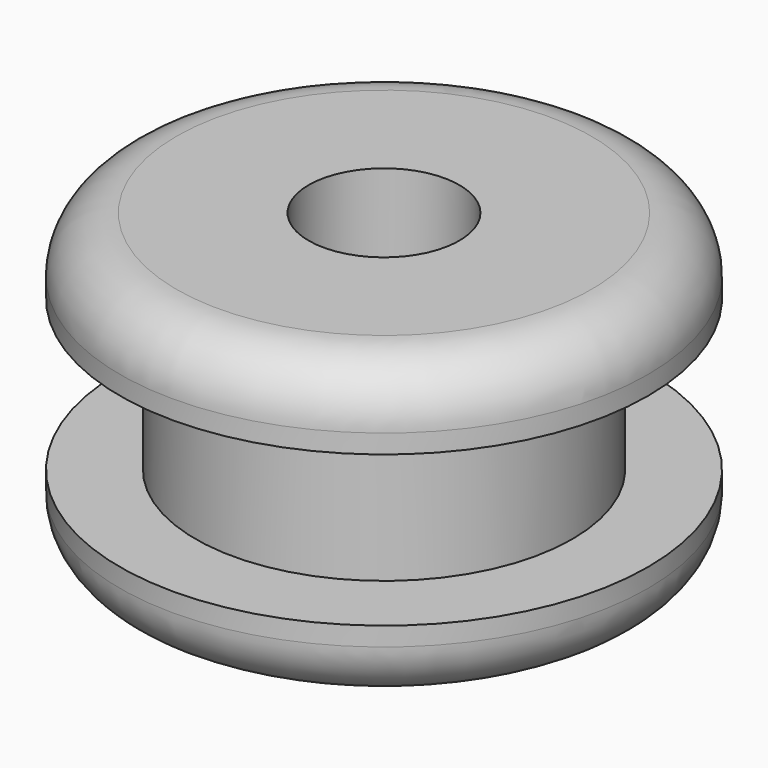
from build123d import *

# Parameters (mm, degrees)
F4_R = 1.190625
F5_R = 1.190625


with BuildPart() as f3:
    # F2 (on Front) → F3 (revolve)
    with BuildSketch(Plane.XZ):
        Polygon((-1.5875, -3.175), (-1.5875, 3.175), (-5.5626, 3.175), (-5.5626, 1.5875), (-3.96875, 1.5875), (-3.96875, -1.5875), (-5.5626, -1.5875), (-5.5626, -3.175), align=None)
    revolve(axis=Axis((0, 0, 0.0240590106), (0, 0, -1)))

    # F4
    f4_edges = [f3.edges().sort_by_distance(p)[0] for p in [
        (5.5626, 0, 3.175),
    ]]
    fillet(f4_edges, radius=F4_R)

    # F5
    f5_edges = [f3.edges().sort_by_distance(p)[0] for p in [
        (5.5626, 0, -3.175),
    ]]
    fillet(f5_edges, radius=F5_R)


solid = f3.part
